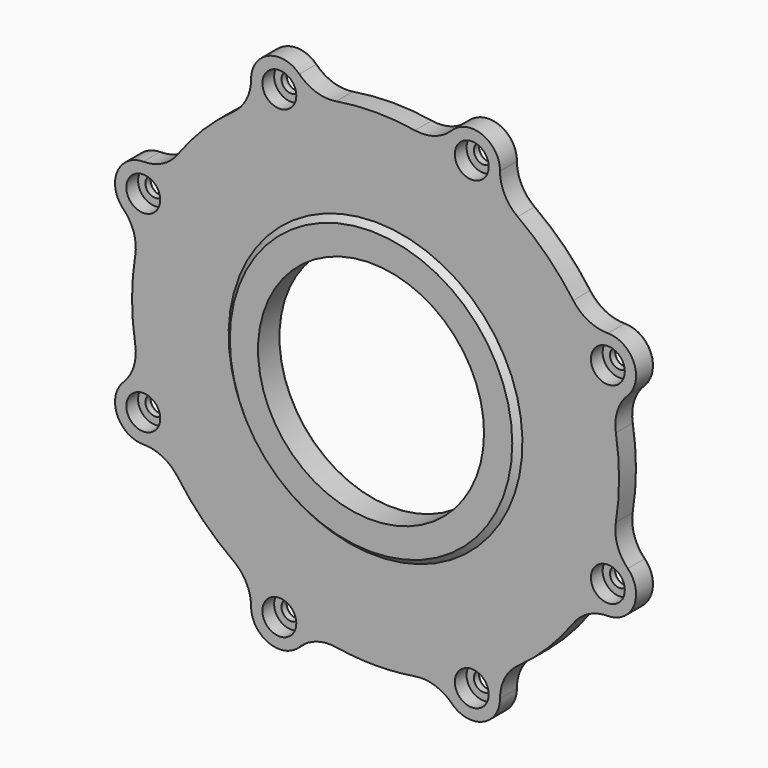
from build123d import *

# Parameters (mm, degrees)
F0_R     = 2.159
F0_R_2   = 25.4
F1_DEPTH = 6.35
F2_R     = 3.81
F3_DEPTH = 4.572
F6_R     = 0.508


with BuildPart() as f1:
    # F0 (on Front) → F1 (new body)
    with BuildSketch(Plane.XZ):
        with BuildLine():
            ThreePointArc((56.694983, -17.129044), (54.354137, -13.30975), (54.017996, -8.842807))
            ThreePointArc((54.017996, -8.842807), (54.737, 0), (54.017996, 8.842807))
            ThreePointArc((54.017996, 8.842807), (54.354137, 13.30975), (56.694983, 17.129044))
            ThreePointArc((56.694983, 17.129044), (58.079687, 24.057394), (52.20147, 27.977344))
            ThreePointArc((52.20147, 27.977344), (47.845593, 29.022764), (44.449301, 31.943682))
            ThreePointArc((44.449301, 31.943682), (38.704904, 38.704904), (31.943682, 44.449301))
            ThreePointArc((31.943682, 44.449301), (29.022764, 47.845593), (27.977344, 52.20147))
            ThreePointArc((27.977344, 52.20147), (24.057394, 58.079687), (17.129044, 56.694983))
            ThreePointArc((17.129044, 56.694983), (13.30975, 54.354137), (8.842807, 54.017996))
            ThreePointArc((8.842807, 54.017996), (0, 54.737), (-8.842807, 54.017996))
            ThreePointArc((-8.842807, 54.017996), (-13.30975, 54.354137), (-17.129044, 56.694983))
            ThreePointArc((-17.129044, 56.694983), (-24.057394, 58.079687), (-27.977344, 52.20147))
            ThreePointArc((-27.977344, 52.20147), (-29.022764, 47.845593), (-31.943682, 44.449301))
            ThreePointArc((-31.943682, 44.449301), (-38.704904, 38.704904), (-44.449301, 31.943682))
            ThreePointArc((-44.449301, 31.943682), (-47.845593, 29.022764), (-52.20147, 27.977344))
            ThreePointArc((-52.20147, 27.977344), (-58.079687, 24.057394), (-56.694983, 17.129044))
            ThreePointArc((-56.694983, 17.129044), (-54.354137, 13.30975), (-54.017996, 8.842807))
            ThreePointArc((-54.017996, 8.842807), (-54.737, 0), (-54.017996, -8.842807))
            ThreePointArc((-54.017996, -8.842807), (-54.354137, -13.30975), (-56.694983, -17.129044))
            ThreePointArc((-56.694983, -17.129044), (-58.079687, -24.057394), (-52.20147, -27.977344))
            ThreePointArc((-52.20147, -27.977344), (-47.845593, -29.022764), (-44.449301, -31.943682))
            ThreePointArc((-44.449301, -31.943682), (-38.704904, -38.704904), (-31.943682, -44.449301))
            ThreePointArc((-31.943682, -44.449301), (-29.022764, -47.845593), (-27.977344, -52.20147))
            ThreePointArc((-27.977344, -52.20147), (-24.057394, -58.079687), (-17.129044, -56.694983))
            ThreePointArc((-17.129044, -56.694983), (-13.30975, -54.354137), (-8.842807, -54.017996))
            ThreePointArc((-8.842807, -54.017996), (-4.435995, -54.556953), (0, -54.737))
            ThreePointArc((0, -54.737), (4.435995, -54.556953), (8.842807, -54.017996))
            ThreePointArc((8.842807, -54.017996), (13.30975, -54.354137), (17.129044, -56.694983))
            ThreePointArc((17.129044, -56.694983), (24.057394, -58.079687), (27.977344, -52.20147))
            ThreePointArc((27.977344, -52.20147), (29.022764, -47.845593), (31.943682, -44.449301))
            ThreePointArc((31.943682, -44.449301), (38.704904, -38.704904), (44.449301, -31.943682))
            ThreePointArc((44.449301, -31.943682), (47.845593, -29.022764), (52.20147, -27.977344))
            ThreePointArc((52.20147, -27.977344), (58.079687, -24.057394), (56.694983, -17.129044))
        make_face()
        with Locations((-21.627354, -52.213052)):
            Circle(F0_R, mode=Mode.SUBTRACT)
        with Locations((-52.213052, -21.627354)):
            Circle(F0_R, mode=Mode.SUBTRACT)
        with Locations((21.627354, -52.213052)):
            Circle(F0_R, mode=Mode.SUBTRACT)
        Circle(F0_R_2, mode=Mode.SUBTRACT)
        with Locations((52.213052, -21.627354)):
            Circle(F0_R, mode=Mode.SUBTRACT)
        with Locations((-52.213052, 21.627354)):
            Circle(F0_R, mode=Mode.SUBTRACT)
        with Locations((-21.627354, 52.213052)):
            Circle(F0_R, mode=Mode.SUBTRACT)
        with Locations((52.213052, 21.627354)):
            Circle(F0_R, mode=Mode.SUBTRACT)
        with Locations((21.627354, 52.213052)):
            Circle(F0_R, mode=Mode.SUBTRACT)
    extrude(amount=-F1_DEPTH)

    # F2 (on Front) → F3 (cut)
    with BuildSketch(Plane.XZ):
        with Locations((-21.627354, 52.213052)):
            Circle(F2_R)
        with Locations((-52.213052, 21.627354)):
            Circle(F2_R)
        with Locations((-52.213052, -21.627354)):
            Circle(F2_R)
        with Locations((-21.627354, -52.213052)):
            Circle(F2_R)
        with Locations((21.627354, -52.213052)):
            Circle(F2_R)
        with Locations((52.213052, -21.627354)):
            Circle(F2_R)
        with Locations((52.213052, 21.627354)):
            Circle(F2_R)
        with Locations((21.627354, 52.213052)):
            Circle(F2_R)
    extrude(amount=-F3_DEPTH, mode=Mode.SUBTRACT)

    # F4 (on Right) → F5 (revolve, cut)
    with BuildSketch(Plane.YZ):
        Polygon((0, 63.5), (0, 31.75), (1.27, 33.02), (1.27, 63.5), align=None)
    revolve(axis=Axis((0, -12.7, 0), (0, -1, 0)), mode=Mode.SUBTRACT)

    # F6
    f6_edges = [f1.edges().sort_by_distance(p)[0] for p in [
        (-38.704904, 6.35, 38.704904),
        (-47.845593, 6.35, 29.022764),
        (-58.079687, 6.35, 24.057394),
        (-54.354137, 6.35, 13.30975),
        (-54.737, 6.35, 0),
        (-54.354137, 6.35, -13.30975),
        (-58.079687, 6.35, -24.057394),
        (-47.845593, 6.35, -29.022764),
        (-38.704904, 6.35, -38.704904),
        (-29.022764, 6.35, -47.845593),
        (-24.057394, 6.35, -58.079687),
        (-13.30975, 6.35, -54.354137),
        (0, 6.35, -54.737),
        (13.30975, 6.35, -54.354137),
        (24.057394, 6.35, -58.079687),
        (29.022764, 6.35, -47.845593),
        (38.704904, 6.35, -38.704904),
        (47.845593, 6.35, -29.022764),
        (58.079687, 6.35, -24.057394),
        (54.354137, 6.35, -13.30975),
        (54.737, 6.35, 0),
        (54.354137, 6.35, 13.30975),
        (58.079687, 6.35, 24.057394),
        (47.845593, 6.35, 29.022764),
        (38.704904, 6.35, 38.704904),
        (29.022764, 6.35, 47.845593),
        (24.057394, 6.35, 58.079687),
        (13.30975, 6.35, 54.354137),
        (0, 6.35, 54.737),
        (-13.30975, 6.35, 54.354137),
        (-24.057394, 6.35, 58.079687),
        (-29.022764, 6.35, 47.845593),
        (-23.786354, 6.35, -52.213052),
        (-54.372052, 6.35, -21.627354),
        (19.468354, 6.35, -52.213052),
        (-25.4, 6.35, 0),
        (50.054052, 6.35, -21.627354),
        (-54.372052, 6.35, 21.627354),
        (-23.786354, 6.35, 52.213052),
        (50.054052, 6.35, 21.627354),
        (19.468354, 6.35, 52.213052),
    ]]
    fillet(f6_edges, radius=F6_R)


solid = f1.part
